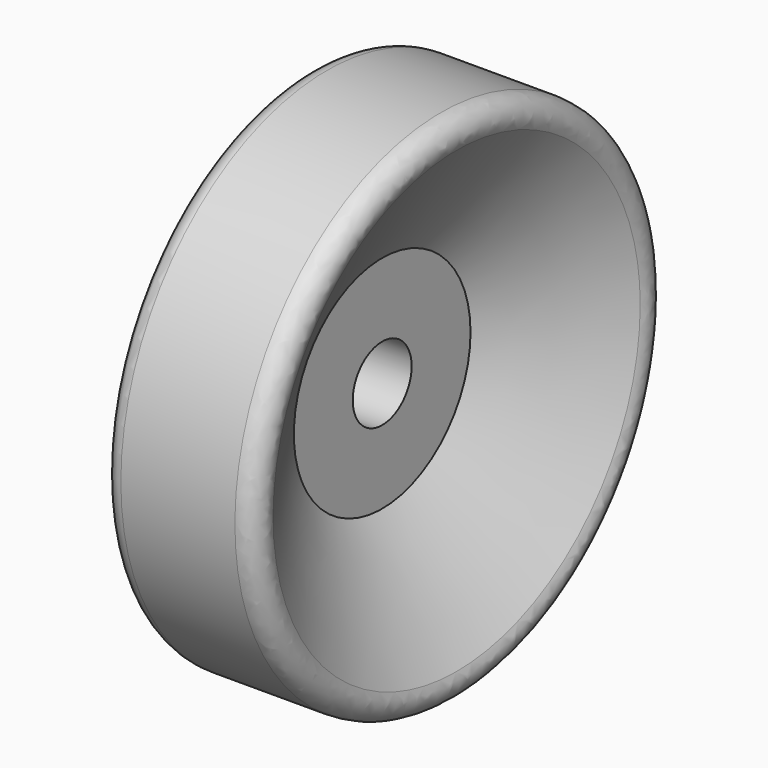
from build123d import *

# Parameters (mm, degrees)
FILLET001_R = 1
FILLET002_R = 1


with BuildPart() as part:
    # Sketch004 → Revolution (revolve)
    with BuildSketch(Plane.XY):
        Polygon((2, 14), (2, 2), (6, 2), (6, 6), (11, 14), align=None)
    revolve(axis=Axis((0, 0, 0), (1, 0, 0)))

    # Fillet001
    fillet001_edges = [part.edges().sort_by_distance(p)[0] for p in [
        (2, -14, 0),
    ]]
    fillet(fillet001_edges, radius=FILLET001_R)

    # Fillet002
    fillet002_edges = [part.edges().sort_by_distance(p)[0] for p in [
        (11, -14, 0),
    ]]
    fillet(fillet002_edges, radius=FILLET002_R)


with BuildPart() as part_1:
    # Body001 placement: moved
    add(part.part.moved(Location((-30, 0, 0))))


solid = part_1.part
